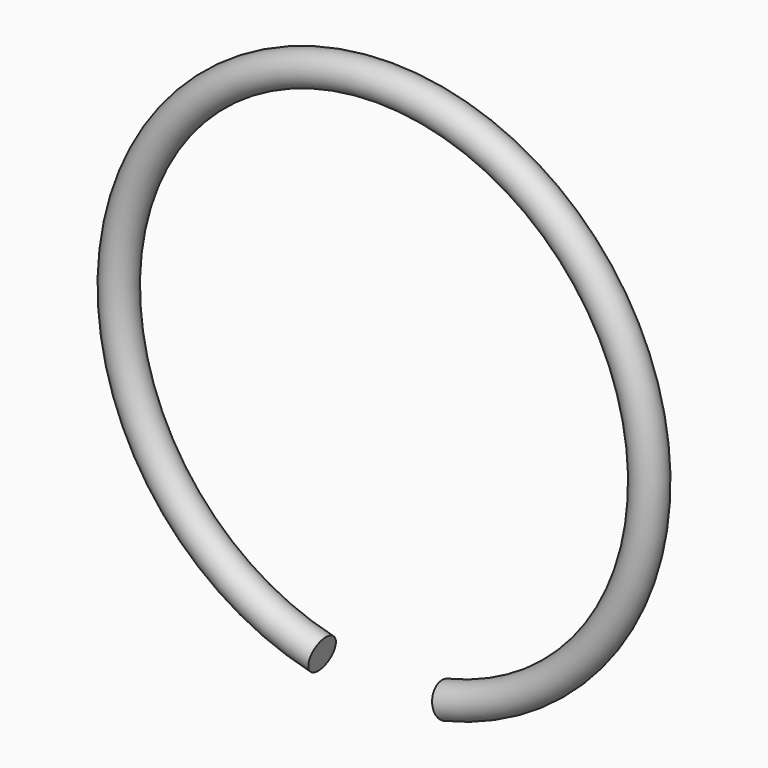
from build123d import *

# Parameters (mm, degrees)
F0_R          = 0.75
F1_ANGLE_BACK = 166.5
F1_ANGLE      = 333


with BuildPart() as f1:
    # F0 (on Right) → F1 (revolve)
    with BuildSketch(Plane.YZ, mode=Mode.PRIVATE) as f1_sk:
        with Locations((0, 12)):
            Circle(F0_R)
    revolve(f1_sk.sketch.rotate(Axis((0, -10, 0), (0, -1, 0)), -F1_ANGLE_BACK), axis=Axis((0, -10, 0), (0, -1, 0)), revolution_arc=F1_ANGLE)


solid = f1.part
